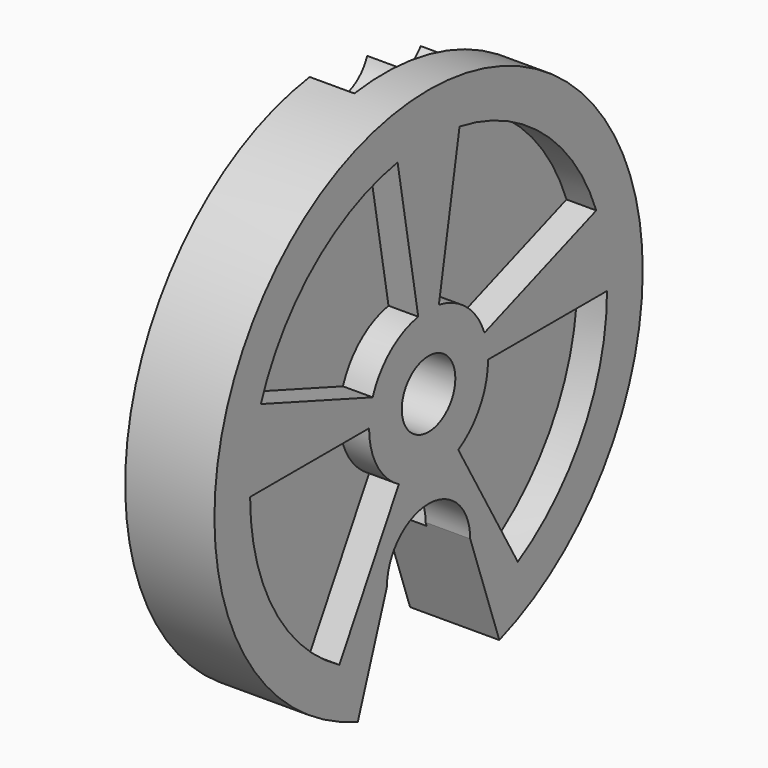
from build123d import *

# Parameters (mm, degrees)
SKETCH036_R           = 2.25
PAD024_DEPTH          = 6
SKETCH038_W           = 20.5
SKETCH038_H           = 20.5
POCKET007_DEPTH       = 3
CYLINDER068_R         = 2.5
CYLINDER068_DEPTH     = 3
POLARPATTERN018_COUNT = 10
POLARPATTERN018_ANGLE = 140
POCKET009_DEPTH       = 2
POLARPATTERN019_COUNT = 4
POLARPATTERN019_ANGLE = 240


with BuildPart() as part:
    # Sketch036 → Pad024 (new body)
    with BuildSketch(Plane.YZ):
        with BuildLine():
            ThreePointArc((5.946308, -16.98945), (0, 18), (-5.946308, -16.98945))
            Line((-3.5, -10), (-5.946308, -16.98945))
            ThreePointArc((3.5, -10), (0, -6.5), (-3.5, -10))
            Line((5.946308, -16.98945), (3.5, -10))
        make_face()
        Circle(SKETCH036_R, mode=Mode.SUBTRACT)
    extrude(amount=PAD024_DEPTH)

    # Sketch038 (on Face6 of Pad024) → Pocket007 (cut)
    with BuildSketch(Plane(origin=(0, 0, 0), x_dir=(0, 1, 0), z_dir=(-1, 0, 0))):
        Rectangle(SKETCH038_W, SKETCH038_H)
    extrude(amount=-POCKET007_DEPTH, mode=Mode.SUBTRACT)

    # Cylinder068 → Cylinder068 (cut)
    with BuildSketch(Plane(origin=(0, 0, 18), x_dir=(0, 1, 0), z_dir=(1, 0, 0))):
        Circle(CYLINDER068_R)
    cylinder068 = extrude(amount=CYLINDER068_DEPTH, mode=Mode.SUBTRACT)

    # PolarPattern018: Cylinder068 ×10 about axis
    polarpattern018_axis = Axis((0, 0, 0), (-1, 0, 0))
    for i in range(1, POLARPATTERN018_COUNT):
        add(cylinder068.rotate(polarpattern018_axis, i * POLARPATTERN018_ANGLE / (POLARPATTERN018_COUNT - 1)), mode=Mode.SUBTRACT)

    # Sketch045 → Pocket009 (cut)
    with BuildSketch(Plane.YZ.offset(6)):
        with BuildLine():
            ThreePointArc((7.5, -12.990381), (12.990381, -7.5), (15, 0))
            Line((15, 0), (5, 0))
            ThreePointArc((2.5, -4.330127), (4.330127, -2.5), (5, 0))
            Line((2.5, -4.330127), (7.5, -12.990381))
        make_face()
    pocket009 = extrude(amount=-POCKET009_DEPTH, mode=Mode.SUBTRACT)

    # PolarPattern019: Pocket009 ×4 about axis
    polarpattern019_axis = Axis((6, 0, 0), (1, 0, 0))
    for i in range(1, POLARPATTERN019_COUNT):
        add(pocket009.rotate(polarpattern019_axis, i * POLARPATTERN019_ANGLE / (POLARPATTERN019_COUNT - 1)), mode=Mode.SUBTRACT)


with BuildPart() as part_1:
    # Body036 placement: moved
    add(part.part.moved(Location((-21, 0, 54))))


solid = part_1.part
